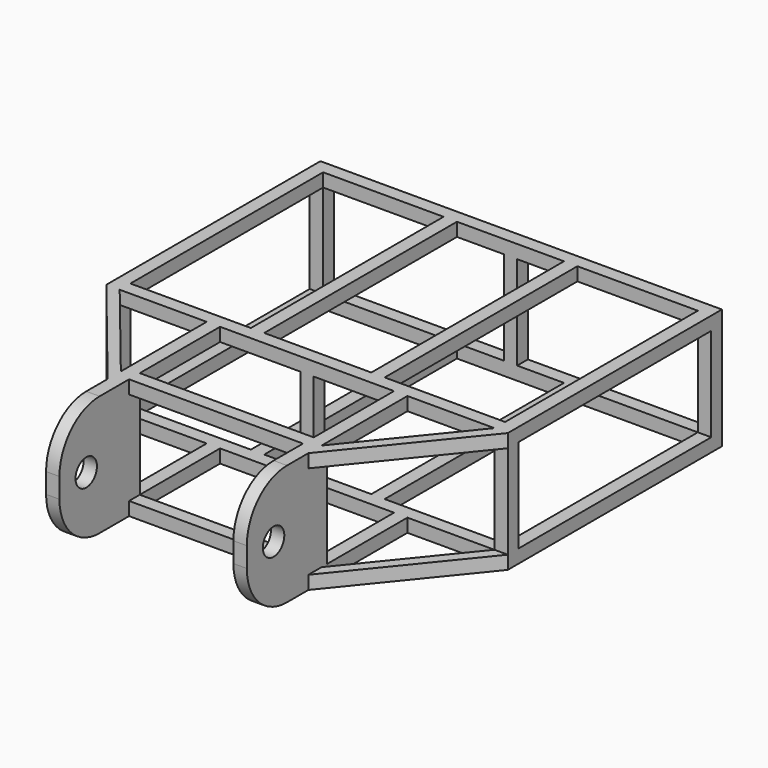
from build123d import *

# Parameters (mm, degrees)
F0_W     = 260
F0_H     = 20
F0_W_2   = 20
F0_H_2   = 360
F1_DEPTH = 20
F2_W     = 20
F2_H     = 20
F2_H_2   = 150
F3_DEPTH = 70
F5_D     = 40
F6_R     = 75


with BuildPart() as f1:
    # F0 (on Top) → F1 (new body)
    with BuildSketch(Plane.XY):
        Polygon((600, 0), (0, 0), (0, -20), (20, -20), (200, -20), (220, -20), (380, -20), (400, -20), (580, -20), (600, -20), align=None)
        Polygon((20, -20), (0, -20), (0, -400), (20, -400), (20, -380), align=None)
        Polygon((600, -400), (600, -20), (580, -20), (580, -380), (580, -400), align=None)
        Polygon((20, -400), (0, -400), (150, -585), (150, -560.333333), align=None)
        Polygon((450, -585), (600, -400), (580, -400), (450, -560.333333), align=None)
        Polygon((150, -560.333333), (150, -585), (150, -700), (170, -700), (170, -570), (170, -550), (170, -400), (150, -400), align=None)
        Polygon((450, -700), (450, -585), (450, -560.333333), (450, -400), (430, -400), (430, -550), (430, -570), (430, -700), align=None)
        with Locations((300, -560)):
            Rectangle(F0_W, F0_H)
        with Locations((390, -200)):
            Rectangle(F0_W_2, F0_H_2)
        Polygon((200, -380), (20, -380), (20, -400), (150, -400), (170, -400), (430, -400), (450, -400), (580, -400), (580, -380), (400, -380), (380, -380), (220, -380), align=None)
        with Locations((210, -200)):
            Rectangle(F0_W_2, F0_H_2)
    extrude(amount=F1_DEPTH)

    # F2 (on face) → F3 (join)
    with BuildSketch(Plane.XY.offset(20)):
        with Locations((10, -10)):
            Rectangle(F2_W, F2_H)
        with Locations((590, -10)):
            Rectangle(F2_W, F2_H)
        with Locations((590, -390)):
            Rectangle(F2_W, F2_H)
        with Locations((10, -390)):
            Rectangle(F2_W, F2_H)
        with Locations((160, -625)):
            Rectangle(F2_W, F2_H_2)
        with Locations((440, -625)):
            Rectangle(F2_W, F2_H_2)
        with Locations((300, -390)):
            Rectangle(F2_W, F2_H)
        with Locations((300, -10)):
            Rectangle(F2_W, F2_H)
    extrude(amount=F3_DEPTH)

    # F5 (through all)
    with Locations(Plane.YZ.offset(450)):
        with Locations((-650, 90)):
            Hole(F5_D / 2)

    # F6
    f6_edges = [f1.edges().sort_by_distance(p)[0] for p in [
        (160, -700, 0),
        (440, -700, 0),
    ]]
    fillet(f6_edges, radius=F6_R)

    # F7: F1 across face


with BuildPart() as f1_1:
    add(f1.part)
    add(f1.part.mirror(Plane(origin=(160, -590, 90), x_dir=(1, 0, 0), z_dir=(0, 0, 1))))


solid = f1_1.part
